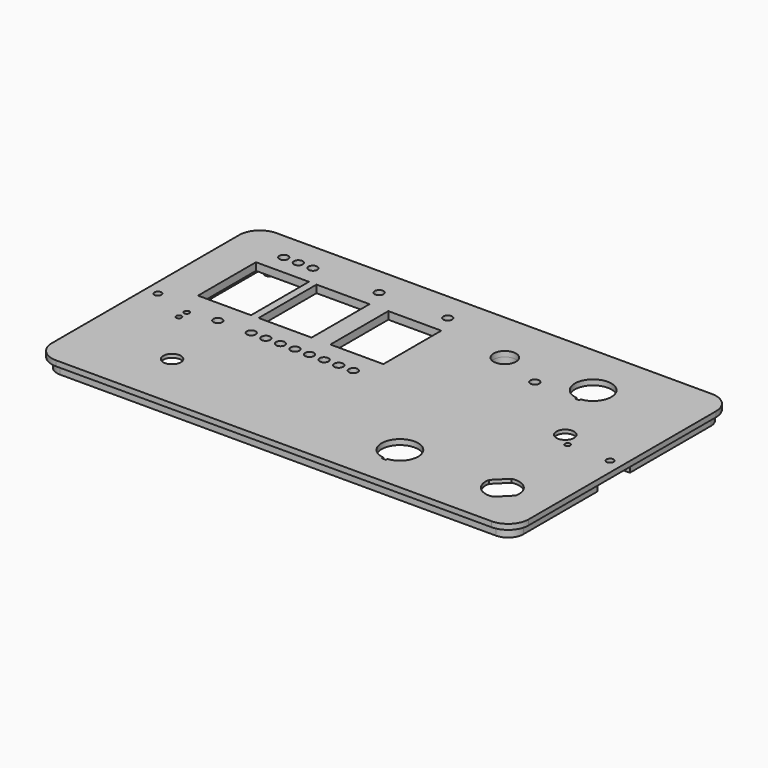
from build123d import *

# Parameters (mm, degrees)
SKETCH008_W      = 110.93
SKETCH008_H      = 54
EXTRUDE009_DEPTH = 5
SKETCH003_R      = 1.25
EXTRUDE_DEPTH    = 5.4
SKETCH004_R      = 5
SKETCH004_R_2    = 2.5
SKETCH004_W      = 114.3
SKETCH004_H      = 79.375
SKETCH004_R_3    = 1.5
SKETCH004_R_4    = 1.25
SKETCH004_W_2    = 30
SKETCH004_H_2    = 41
EXTRUDE005_DEPTH = 4.8
SKETCH002_R      = 3
SKETCH002_R_2    = 1.25
EXTRUDE002_DEPTH = 7.5
SKETCH005_R      = 12
SKETCH005_R_2    = 6.35
EXTRUDE006_DEPTH = 4
SKETCH006_W      = 5
SKETCH006_H      = 22
EXTRUDE007_DEPTH = 10
SKETCH009_R      = 14
EXTRUDE010_DEPTH = 1
SKETCH_R         = 5
SKETCH_R_2       = 2.5
SKETCH_R_3       = 1.5
SKETCH_R_4       = 2
SKETCH_R_5       = 6.35
SKETCH_W         = 30
SKETCH_H         = 41
EXTRUDE008_DEPTH = 3


with BuildPart() as extrude_lcd_cavity:
    # Sketch008 → Extrude009 (new body)
    with BuildSketch(Plane.XY):
        with Locations((-60.485, 30.075)):
            Rectangle(SKETCH008_W, SKETCH008_H)
    extrude(amount=EXTRUDE009_DEPTH)


with BuildPart() as extrude_lcd_cavity_1:
    # Extrude009 placement: moved
    add(extrude_lcd_cavity.part.moved(Location((0, 0, -6.3))))


with BuildPart() as extrude_ribs:
    # Sketch003 → Extrude (new body)
    with BuildSketch(Plane.XY):
        with BuildLine():
            Line((-119, 9), (-119, -14))
            Line((-132, -14), (-119, -14))
            Line((-132, -66.32), (-132, -14))
            ThreePointArc((-132, -66.32), (-129.457687, -72.457687), (-123.32, -75))
            Line((-123.32, -75), (123.32, -75))
            ThreePointArc((123.32, -75), (129.457687, -72.457687), (132, -66.32))
            Line((132, -66.32), (132, -14))
            Line((120, -14), (132, -14))
            Line((120, -14), (120, 9))
            Line((132, 9), (120, 9))
            Line((132, 66.32), (132, 9))
            ThreePointArc((132, 66.32), (129.457687, 72.457687), (123.32, 75))
            Line((-123.32, 75), (123.32, 75))
            ThreePointArc((-123.32, 75), (-129.457687, 72.457687), (-132, 66.32))
            Line((-132, 66.32), (-132, 9))
            Line((-119, 9), (-132, 9))
        make_face()
        with Locations((-5.875, 61.825)):
            Circle(SKETCH003_R, mode=Mode.SUBTRACT)
        with Locations((-5.875, -11.2)):
            Circle(SKETCH003_R, mode=Mode.SUBTRACT)
        with Locations((-61, -58)):
            Circle(SKETCH003_R, mode=Mode.SUBTRACT)
        with Locations((15, -58)):
            Circle(SKETCH003_R, mode=Mode.SUBTRACT)
        with BuildLine():
            ThreePointArc((128, 66.32), (126.62926, 69.62926), (123.32, 71))
            Line((-2.7, 71), (123.32, 71))
            Line((-2.7, -14), (-2.7, 71))
            Line((-2.7, -14), (117, -14))
            Line((117, -14), (117, 13))
            Line((117, 13), (128, 13))
            Line((128, 66.32), (128, 13))
        make_face(mode=Mode.SUBTRACT)
        with BuildLine():
            ThreePointArc((-123.32, 71), (-126.62926, 69.62926), (-128, 66.32))
            Line((-128, 66.32), (-128, 13))
            Line((-128, 13), (-116, 13))
            Line((-116, 13), (-116, -14))
            Line((-116, -14), (-8.7, -14))
            Line((-8.7, -14), (-8.7, 71))
            Line((-123.32, 71), (-8.7, 71))
        make_face(mode=Mode.SUBTRACT)
        with BuildLine():
            ThreePointArc((-128, -66.32), (-126.62926, -69.62926), (-123.32, -71))
            Line((-64, -71), (-123.32, -71))
            Line((-64, -20), (-64, -71))
            Line((-64, -20), (-128, -20))
            Line((-128, -20), (-128, -66.32))
        make_face(mode=Mode.SUBTRACT)
        with BuildLine():
            Line((-58, -70), (12, -70))
            Line((12, -70), (12, -55))
            Line((12, -55), (18, -55))
            Line((18, -55), (18, -71))
            Line((123.32, -71), (18, -71))
            ThreePointArc((123.32, -71), (126.62926, -69.62926), (128, -66.32))
            Line((128, -66.32), (128, -20))
            Line((18, -20), (128, -20))
            Line((18, -35), (18, -20))
            Line((12, -35), (18, -35))
            Line((12, -20), (12, -35))
            Line((-58, -20), (12, -20))
            Line((-58, -70), (-58, -20))
        make_face(mode=Mode.SUBTRACT)
    extrude(amount=-EXTRUDE_DEPTH)


with BuildPart() as ribs_and_nibs_with_cavity:
    # Sketch004 → Extrude005 (new body)
    with BuildSketch(Plane.XY):
        with Locations((55, 38)):
            Circle(SKETCH004_R)
        with Locations((55, 38)):
            Circle(SKETCH004_R_2, mode=Mode.SUBTRACT)
        with Locations((-59.85, 25.3125)):
            Rectangle(SKETCH004_W, SKETCH004_H)
        with Locations((-106.205, 61.825)):
            Circle(SKETCH004_R_2, mode=Mode.SUBTRACT)
        with Locations((-97.95, 61.825)):
            Circle(SKETCH004_R_2, mode=Mode.SUBTRACT)
        with Locations((-89.695, 61.825)):
            Circle(SKETCH004_R_2, mode=Mode.SUBTRACT)
        with Locations((-52.23, 61.825)):
            Circle(SKETCH004_R_2, mode=Mode.SUBTRACT)
        with Locations((-13.368, 61.825)):
            Circle(SKETCH004_R_2, mode=Mode.SUBTRACT)
        with Locations((-91.219, -3.58)):
            Circle(SKETCH004_R_2, mode=Mode.SUBTRACT)
        with Locations((-72.296, -3.58)):
            Circle(SKETCH004_R_2, mode=Mode.SUBTRACT)
        with Locations((-64.041, -3.58)):
            Circle(SKETCH004_R_2, mode=Mode.SUBTRACT)
        with Locations((-55.786, -3.58)):
            Circle(SKETCH004_R_2, mode=Mode.SUBTRACT)
        with Locations((-39.276, -3.58)):
            Circle(SKETCH004_R_2, mode=Mode.SUBTRACT)
        with Locations((-22.766, -3.58)):
            Circle(SKETCH004_R_2, mode=Mode.SUBTRACT)
        with Locations((-14.511, -3.58)):
            Circle(SKETCH004_R_2, mode=Mode.SUBTRACT)
        with Locations((-31.021, -3.58)):
            Circle(SKETCH004_R_2, mode=Mode.SUBTRACT)
        with Locations((-47.531, -3.58)):
            Circle(SKETCH004_R_2, mode=Mode.SUBTRACT)
        with Locations((-106.84, -5.993)):
            Circle(SKETCH004_R_3, mode=Mode.SUBTRACT)
        with Locations((-106.84, -11.5556)):
            Circle(SKETCH004_R_3, mode=Mode.SUBTRACT)
        with Locations((-113.825, 61.825)):
            Circle(SKETCH004_R_4, mode=Mode.SUBTRACT)
        with Locations((-59.85, 61.825)):
            Circle(SKETCH004_R_4, mode=Mode.SUBTRACT)
        with Locations((-5.875, 61.825)):
            Circle(SKETCH004_R_4, mode=Mode.SUBTRACT)
        with Locations((-113.825, -11.2)):
            Circle(SKETCH004_R_4, mode=Mode.SUBTRACT)
        with Locations((-59.85, -11.2)):
            Circle(SKETCH004_R_4, mode=Mode.SUBTRACT)
        with Locations((-5.875, -11.2)):
            Circle(SKETCH004_R_4, mode=Mode.SUBTRACT)
        with Locations((-97.95, 30.075)):
            Rectangle(SKETCH004_W_2, SKETCH004_H_2, mode=Mode.SUBTRACT)
        with Locations((-63.66, 30.075)):
            Rectangle(SKETCH004_W_2, SKETCH004_H_2, mode=Mode.SUBTRACT)
        with Locations((-23.02, 30.075)):
            Rectangle(SKETCH004_W_2, SKETCH004_H_2, mode=Mode.SUBTRACT)
    extrude(amount=-EXTRUDE005_DEPTH)

    # Fusion: union Extrude ribs
    add(extrude_ribs.part)

    # Cut: cut Extrude lcd cavity
    add(extrude_lcd_cavity_1.part, mode=Mode.SUBTRACT)


with BuildPart() as extrude_pcb_mounts:
    # Sketch002 → Extrude002 (new body)
    with BuildSketch(Plane.XY):
        with Locations((-5.875, 61.825)):
            Circle(SKETCH002_R)
        with Locations((-5.875, 61.825)):
            Circle(SKETCH002_R_2, mode=Mode.SUBTRACT)
        with Locations((-59.85, 61.825)):
            Circle(SKETCH002_R)
        with Locations((-59.85, 61.825)):
            Circle(SKETCH002_R_2, mode=Mode.SUBTRACT)
        with Locations((-113.825, 61.825)):
            Circle(SKETCH002_R)
        with Locations((-113.825, 61.825)):
            Circle(SKETCH002_R_2, mode=Mode.SUBTRACT)
        with Locations((-113.825, -11.2)):
            Circle(SKETCH002_R)
        with Locations((-113.825, -11.2)):
            Circle(SKETCH002_R_2, mode=Mode.SUBTRACT)
        with Locations((-59.85, -11.2)):
            Circle(SKETCH002_R)
        with Locations((-59.85, -11.2)):
            Circle(SKETCH002_R_2, mode=Mode.SUBTRACT)
        with Locations((-5.875, -11.2)):
            Circle(SKETCH002_R)
        with Locations((-5.875, -11.2)):
            Circle(SKETCH002_R_2, mode=Mode.SUBTRACT)
    extrude(amount=-EXTRUDE002_DEPTH)


with BuildPart() as extrude_toggle_switch_lands:
    # Sketch005 → Extrude006 (new body)
    with BuildSketch(Plane.XY):
        with Locations((30, 48)):
            Circle(SKETCH005_R)
        with Locations((30, 48)):
            Circle(SKETCH005_R_2, mode=Mode.SUBTRACT)
    extrude(amount=-EXTRUDE006_DEPTH)


with BuildPart() as extrude_toggle_switch_ribs:
    # Sketch006 → Extrude007 (new body)
    with BuildSketch(Plane.XY):
        with Locations((19.5, 48)):
            Rectangle(SKETCH006_W, SKETCH006_H)
    extrude(amount=-EXTRUDE007_DEPTH)


with BuildPart() as extrude_shaft_recesses:
    # Sketch009 → Extrude010 (new body)
    with BuildSketch(Plane.XY):
        with Locations((-84, -45)):
            Circle(SKETCH009_R)
        with Locations((97, 7)):
            Circle(SKETCH009_R)
        with Locations((107, -50)):
            Circle(SKETCH009_R)
    extrude(amount=EXTRUDE010_DEPTH)


with BuildPart() as f_3d_printable_panel:
    # Sketch → Extrude008 (new body)
    with BuildSketch(Plane.XY):
        with BuildLine():
            ThreePointArc((-123.32, 78), (-131.579007, 74.579007), (-135, 66.32))
            Line((-135, 66.32), (-135, -66.32))
            ThreePointArc((-135, -66.32), (-131.579007, -74.579007), (-123.32, -78))
            Line((-123.32, -78), (123.32, -78))
            ThreePointArc((123.32, -78), (131.579007, -74.579007), (135, -66.32))
            Line((135, 66.32), (135, -66.32))
            ThreePointArc((135, 66.32), (131.579007, 74.579007), (123.32, 78))
            Line((-123.32, 78), (123.32, 78))
        make_face()
        with Locations((-84, -45)):
            Circle(SKETCH_R, mode=Mode.SUBTRACT)
        with Locations((-106.205, 61.825)):
            Circle(SKETCH_R_2, mode=Mode.SUBTRACT)
        with Locations((-97.95, 61.825)):
            Circle(SKETCH_R_2, mode=Mode.SUBTRACT)
        with Locations((-89.695, 61.825)):
            Circle(SKETCH_R_2, mode=Mode.SUBTRACT)
        with Locations((-52.23, 61.825)):
            Circle(SKETCH_R_2, mode=Mode.SUBTRACT)
        with Locations((-13.368, 61.825)):
            Circle(SKETCH_R_2, mode=Mode.SUBTRACT)
        with Locations((-91.219, -3.58)):
            Circle(SKETCH_R_2, mode=Mode.SUBTRACT)
        with Locations((-72.296, -3.58)):
            Circle(SKETCH_R_2, mode=Mode.SUBTRACT)
        with Locations((-64.041, -3.58)):
            Circle(SKETCH_R_2, mode=Mode.SUBTRACT)
        with Locations((-55.786, -3.58)):
            Circle(SKETCH_R_2, mode=Mode.SUBTRACT)
        with Locations((-39.276, -3.58)):
            Circle(SKETCH_R_2, mode=Mode.SUBTRACT)
        with Locations((-22.766, -3.58)):
            Circle(SKETCH_R_2, mode=Mode.SUBTRACT)
        with Locations((-14.511, -3.58)):
            Circle(SKETCH_R_2, mode=Mode.SUBTRACT)
        with Locations((-31.021, -3.58)):
            Circle(SKETCH_R_2, mode=Mode.SUBTRACT)
        with Locations((-47.531, -3.58)):
            Circle(SKETCH_R_2, mode=Mode.SUBTRACT)
        with Locations((-106.84, -5.993)):
            Circle(SKETCH_R_3, mode=Mode.SUBTRACT)
        with Locations((-106.84, -11.5556)):
            Circle(SKETCH_R_3, mode=Mode.SUBTRACT)
        with Locations((97, 7)):
            Circle(SKETCH_R, mode=Mode.SUBTRACT)
        with Locations((-128, 0)):
            Circle(SKETCH_R_4, mode=Mode.SUBTRACT)
        with Locations((128, 0)):
            Circle(SKETCH_R_4, mode=Mode.SUBTRACT)
        with Locations((30, 48)):
            Circle(SKETCH_R_5, mode=Mode.SUBTRACT)
        with Locations((55, 38)):
            Circle(SKETCH_R_2, mode=Mode.SUBTRACT)
        with Locations((103.735192, 0.264808)):
            Circle(SKETCH_R_3, mode=Mode.SUBTRACT)
        with Locations((-97.95, 30.075)):
            Rectangle(SKETCH_W, SKETCH_H, mode=Mode.SUBTRACT)
        with Locations((-63.66, 30.075)):
            Rectangle(SKETCH_W, SKETCH_H, mode=Mode.SUBTRACT)
        with Locations((-23.02, 30.075)):
            Rectangle(SKETCH_W, SKETCH_H, mode=Mode.SUBTRACT)
        with BuildLine():
            Line((47.85, -61.3), (50.15, -61.3))
            Line((50.15, -61.3), (50.15, -60.285913))
            ThreePointArc((50.15, -60.285913), (49, -39.65), (47.85, -60.285913))
            Line((47.85, -61.3), (47.85, -60.285913))
        make_face(mode=Mode.SUBTRACT)
        with BuildLine():
            Line((78.85, 36.7), (81.15, 36.7))
            Line((81.15, 36.7), (81.15, 37.714087))
            ThreePointArc((81.15, 37.714087), (80, 58.35), (78.85, 37.714087))
            Line((78.85, 36.7), (78.85, 37.714087))
        make_face(mode=Mode.SUBTRACT)
        with BuildLine():
            Line((109.217579, -59.237551), (116.237551, -52.217579))
            ThreePointArc((116.237551, -52.217579), (113.717514, -43.282486), (104.782421, -40.762449))
            Line((97.762449, -47.782421), (104.782421, -40.762449))
            ThreePointArc((97.762449, -47.782421), (100.282486, -56.717514), (109.217579, -59.237551))
        make_face(mode=Mode.SUBTRACT)
    extrude(amount=EXTRUDE008_DEPTH)

    # Cut001: cut Extrude shaft recesses
    add(extrude_shaft_recesses.part, mode=Mode.SUBTRACT)

    # Fusion001: union ribs and nibs with cavity, Extrude pcb mounts, Extrude toggle switch lands, Extrude toggle switch ribs
    add(ribs_and_nibs_with_cavity.part)
    add(extrude_pcb_mounts.part)
    add(extrude_toggle_switch_lands.part)
    add(extrude_toggle_switch_ribs.part)


solid = f_3d_printable_panel.part
